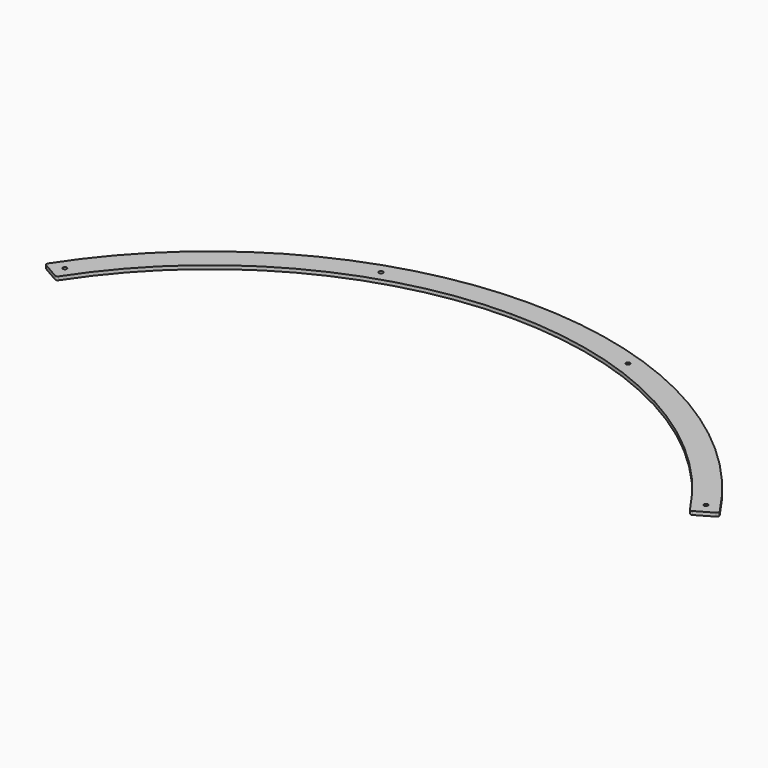
from build123d import *

# Parameters (mm, degrees)
PAD005_DEPTH         = 3
SKETCH058_R          = 1.7
POCKET029_DEPTH      = 0.001
POCKET029_DEPTH_BACK = 3.001


with BuildPart() as part:
    # Sketch057 → Pad005 (new body)
    with BuildSketch(Plane.XY):
        with BuildLine():
            ThreePointArc((269.904723, 175.912153), (153.492654, 283.255451), (0, 322.170212))
            Line((0, 322.170212), (0, 342.170212))
            ThreePointArc((287.134265, 186.103111), (163.403661, 300.632163), (0, 342.170212))
            ThreePointArc((286.455952, 183.283279), (287.400483, 184.547572), (287.134265, 186.103111))
            Line((272.580264, 175.272147), (286.455952, 183.283279))
            ThreePointArc((269.904723, 175.912153), (271.114979, 175.059074), (272.580264, 175.272147))
        make_face()
    pad005 = extrude(amount=PAD005_DEPTH)

    # Mirrored011: Pad005 across Sketch057 V_Axis
    add(pad005.mirror(Plane(origin=(0, 0, 0), x_dir=(0, 0, 1), z_dir=(1, 0, 0))))

    # Sketch058 → Pocket029 (cut, two sides)
    with BuildSketch(Plane.XY) as pocket029_sk:
        with Locations((105.577257, 314.945221)):
            Circle(SKETCH058_R)
        with Locations((274.068932, 187.678635)):
            Circle(SKETCH058_R)
        with Locations((-105.577257, 314.945221)):
            Circle(SKETCH058_R)
        with Locations((-274.068932, 187.678635)):
            Circle(SKETCH058_R)
    extrude(amount=-POCKET029_DEPTH, mode=Mode.SUBTRACT)
    extrude(pocket029_sk.sketch, amount=POCKET029_DEPTH_BACK, mode=Mode.SUBTRACT)


solid = part.part
